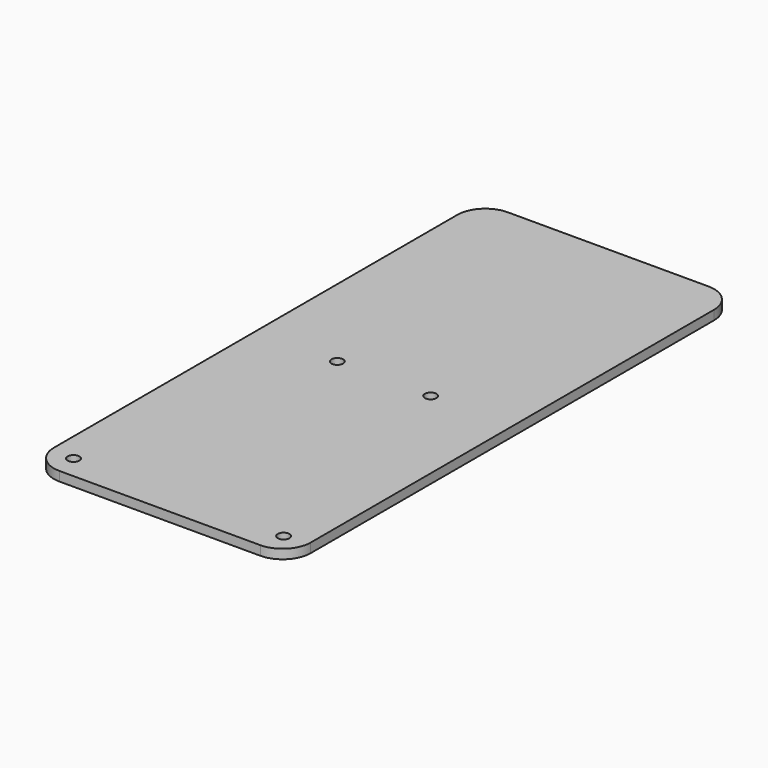
from build123d import *

# Parameters (mm, degrees)
F0_W     = 69.85
F0_H     = 152.4
F0_R     = 1.5875
F1_DEPTH = 2.54
F2_R     = 7.62


with BuildPart() as f1:
    # F0 (on Top) → F1 (new body)
    with BuildSketch(Plane.XY):
        Rectangle(F0_W, F0_H)
        with Locations((-28.575, -69.85)):
            Circle(F0_R, mode=Mode.SUBTRACT)
        with Locations((28.575, -69.85)):
            Circle(F0_R, mode=Mode.SUBTRACT)
        with Locations((-12.7, 0)):
            Circle(F0_R, mode=Mode.SUBTRACT)
        with Locations((12.7, 0)):
            Circle(F0_R, mode=Mode.SUBTRACT)
    extrude(amount=F1_DEPTH)

    # F2
    f2_edges = [f1.edges().sort_by_distance(p)[0] for p in [
        (-34.925, 76.2, 1.27),
        (34.925, 76.2, 1.27),
        (-34.925, -76.2, 1.27),
        (34.925, -76.2, 1.27),
    ]]
    fillet(f2_edges, radius=F2_R)


solid = f1.part
